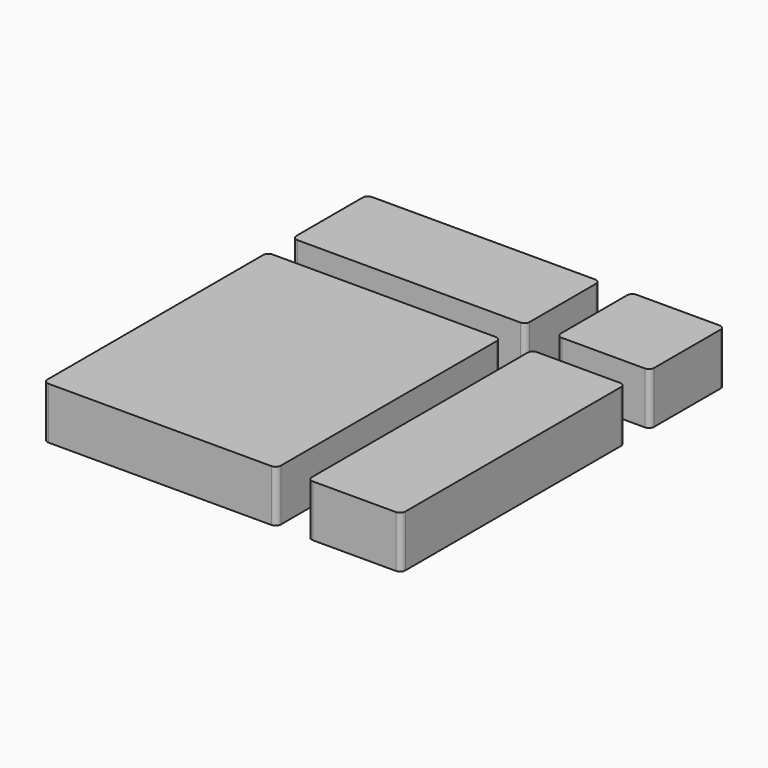
from build123d import *

# Parameters (mm, degrees)
F1_DEPTH = 5


with BuildPart() as f1:
    # F0 (on Top) → F1 (new body)
    with BuildSketch(Plane.XY):
        with BuildLine():
            ThreePointArc((0, 0.5), (0.146447, 0.146447), (0.5, 0))
            Line((0.5, 0), (22, 0))
            ThreePointArc((22, 0), (22.353553, 0.146447), (22.5, 0.5))
            Line((22.5, 0.5), (22.5, 26.5))
            ThreePointArc((22.5, 26.5), (22.353553, 26.853553), (22, 27))
            Line((22, 27), (0.5, 27))
            ThreePointArc((0.5, 27), (0.146447, 26.853553), (0, 26.5))
            Line((0, 26.5), (0, 0.5))
        make_face()
        with BuildLine():
            ThreePointArc((25.5, 0.5), (25.646447, 0.146447), (26, 0))
            Line((26, 0), (34, 0))
            ThreePointArc((34, 0), (34.353553, 0.146447), (34.5, 0.5))
            Line((34.5, 0.5), (34.5, 26.5))
            ThreePointArc((34.5, 26.5), (34.353553, 26.853553), (34, 27))
            Line((34, 27), (26, 27))
            ThreePointArc((26, 27), (25.646447, 26.853553), (25.5, 26.5))
            Line((25.5, 26.5), (25.5, 0.5))
        make_face()
        with BuildLine():
            ThreePointArc((0, 30.5), (0.146447, 30.146447), (0.5, 30))
            Line((0.5, 30), (22, 30))
            ThreePointArc((22, 30), (22.353553, 30.146447), (22.5, 30.5))
            Line((22.5, 30.5), (22.5, 38.5))
            ThreePointArc((22.5, 38.5), (22.353553, 38.853553), (22, 39))
            Line((22, 39), (0.5, 39))
            ThreePointArc((0.5, 39), (0.146447, 38.853553), (0, 38.5))
            Line((0, 38.5), (0, 30.5))
        make_face()
        with BuildLine():
            ThreePointArc((25.5, 30.5), (25.646447, 30.146447), (26, 30))
            Line((26, 30), (34, 30))
            ThreePointArc((34, 30), (34.353553, 30.146447), (34.5, 30.5))
            Line((34.5, 30.5), (34.5, 38.5))
            ThreePointArc((34.5, 38.5), (34.353553, 38.853553), (34, 39))
            Line((34, 39), (26, 39))
            ThreePointArc((26, 39), (25.646447, 38.853553), (25.5, 38.5))
            Line((25.5, 38.5), (25.5, 30.5))
        make_face()
    extrude(amount=F1_DEPTH)


solid = f1.part
